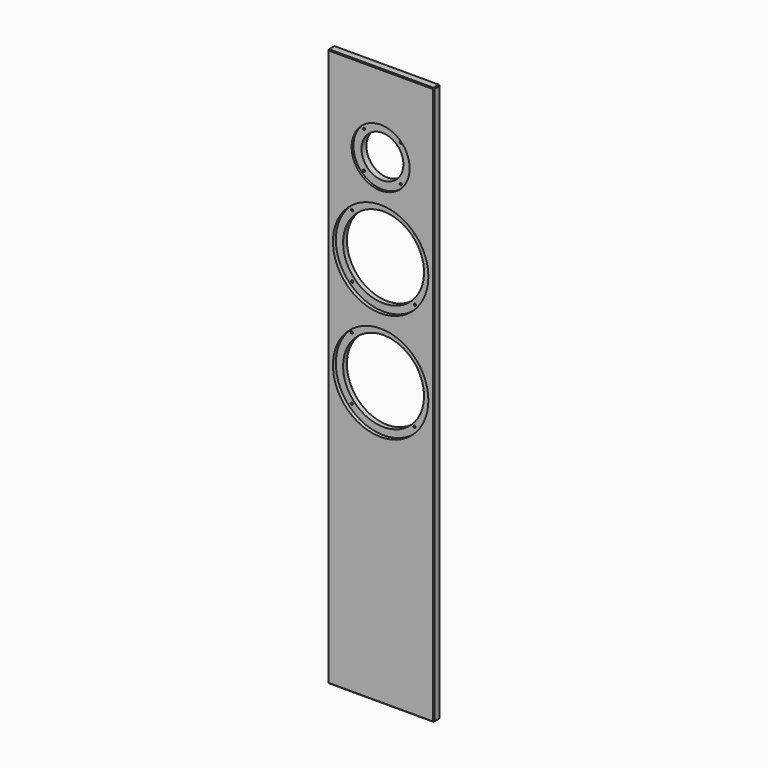
from build123d import *

# Parameters (mm, degrees)
F0_W           = 190
F0_H           = 1000
F1_DEPTH       = 15
F2_D           = 75
F2_DEPTH       = 15
F2_CBORE_D     = 104
F2_CBORE_DEPTH = 4
F3_D           = 145
F3_DEPTH       = 15
F3_CBORE_D     = 171
F3_CBORE_DEPTH = 6.5
F4_D           = 145
F4_DEPTH       = 15
F4_CBORE_D     = 171
F4_CBORE_DEPTH = 6.5
F5_D           = 4
F5_DEPTH       = 15
F6_SIZE        = 1.5


with BuildPart() as f1:
    # F0 (on Front) → F1 (new body)
    with BuildSketch(Plane.XZ):
        Rectangle(F0_W, F0_H)
    extrude(amount=-F1_DEPTH)

    # F2
    with Locations(Plane.XZ):
        with Locations((0, 360)):
            CounterBoreHole(F2_D / 2, F2_CBORE_D / 2, F2_CBORE_DEPTH, depth=F2_DEPTH)

    # F3
    with Locations(Plane.XZ):
        with Locations((0, 200)):
            CounterBoreHole(F3_D / 2, F3_CBORE_D / 2, F3_CBORE_DEPTH, depth=F3_DEPTH)

    # F4
    with Locations(Plane.XZ):
        with Locations((0, 5)):
            CounterBoreHole(F4_D / 2, F4_CBORE_D / 2, F4_CBORE_DEPTH, depth=F4_DEPTH)

    # F5
    with Locations(Plane.XZ):
        with Locations((-56.214989, 256.214989), (56.214989, 256.214989), (56.214989, 143.785011), (-56.214989, 143.785011), (-56.947881, 63.257827), (55.482097, 63.257827), (55.482097, -49.172151), (-56.947881, -49.172151), (-32.880465, 392.880465), (32.880465, 392.880465), (32.880465, 327.119535), (-32.880465, 327.119535)):
            Hole(F5_D / 2, depth=F5_DEPTH)

    # F6
    f6_edges = [f1.edges().sort_by_distance(p)[0] for p in [
        (-95, 0, 0),
        (0, 0, 500),
        (95, 0, 0),
        (0, 0, -500),
        (-95, 7.5, -500),
        (-95, 15, 0),
        (0, 15, -500),
        (95, 7.5, -500),
        (95, 15, 0),
        (-95, 7.5, 500),
        (0, 15, 500),
        (95, 7.5, 500),
    ]]
    chamfer(f6_edges, length=F6_SIZE)


solid = f1.part
